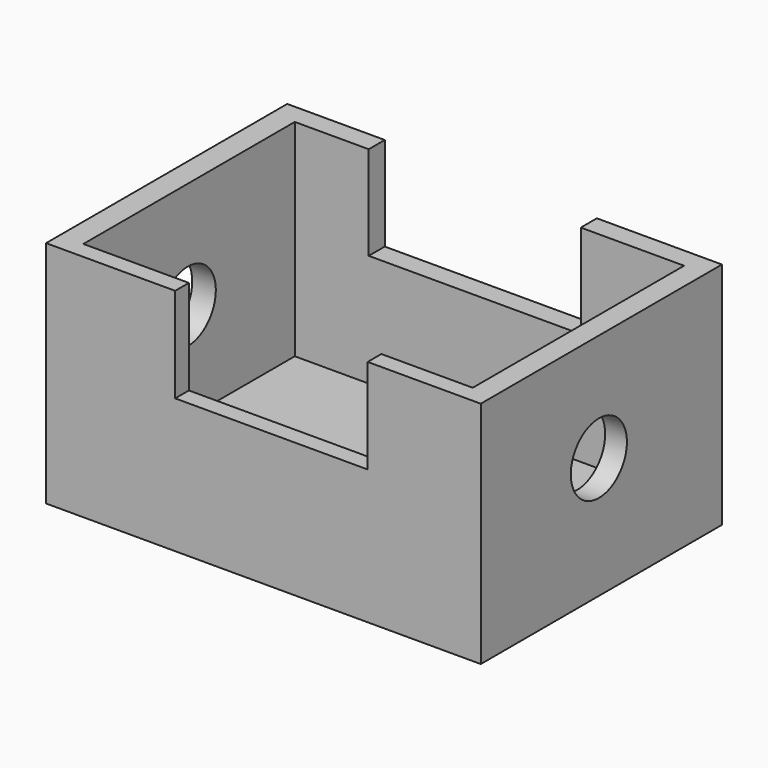
from build123d import *

# Parameters (mm, degrees)
F0_W     = 96.331384033
F0_H     = 66.804073751
F1_DEPTH = 50.8
F2_W     = 86.2758494914
F2_H     = 58.5615355521
F3_DEPTH = 45.72
F4_W     = 42.655935511
F4_H     = 20.9858628541
F5_DEPTH = 25.4
F6_W     = 46.9938255847
F6_H     = 20.7962493032
F7_DEPTH = 25.4
F8_R     = 7.7718220909
F9_DEPTH = 127


with BuildPart() as f1:
    # F0 (on Top) → F1 (new body)
    with BuildSketch(Plane.XY):
        with Locations((-1.048495993, 11.8953883648)):
            Rectangle(F0_W, F0_H)
    extrude(amount=F1_DEPTH)

    # F2 (on face) → F3 (cut)
    with BuildSketch(Plane.XY.offset(50.8)):
        with Locations((-0.8434783667, 11.5677108988)):
            Rectangle(F2_W, F2_H)
    extrude(amount=-F3_DEPTH, mode=Mode.SUBTRACT)

    # F4 (on face) → F5 (cut)
    with BuildSketch(Plane.XZ.offset(21.5066485107)):
        with Locations((0.7229829207, 40.3070685729)):
            Rectangle(F4_W, F4_H)
    extrude(amount=-F5_DEPTH, mode=Mode.SUBTRACT)

    # F6 (on face) → F7 (cut)
    with BuildSketch(Plane(origin=(0, 45.2974252403, 0), x_dir=(-1, 0, 0), z_dir=(0, 1, 0))):
        with Locations((4.096897319, 40.4018753484)):
            Rectangle(F6_W, F6_H)
    extrude(amount=-F7_DEPTH, mode=Mode.SUBTRACT)

    # F8 (on face) → F9 (cut)
    with BuildSketch(Plane.YZ.offset(47.1171960235)):
        with Locations((11.2062208354, 26.8708299845)):
            Circle(F8_R)
    extrude(amount=-F9_DEPTH, mode=Mode.SUBTRACT)


solid = f1.part
